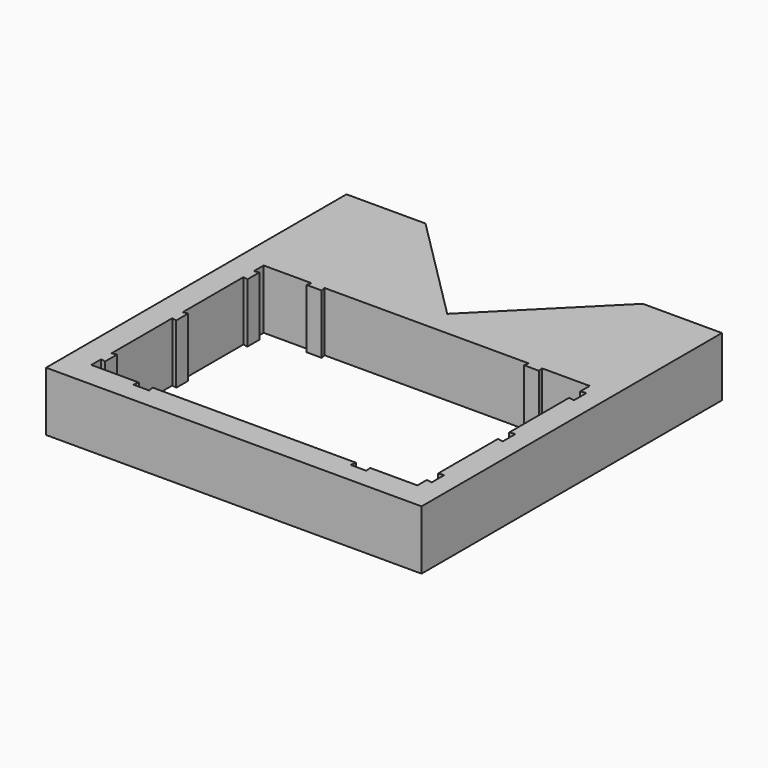
from build123d import *

# Parameters (mm, degrees)
PAD_DEPTH = 15


with BuildPart() as part:
    # Sketch → Pad (new body)
    with BuildSketch(Plane.XY):
        Polygon((0, 67.5), (-27.5, 95), (-47.5, 95), (-47.5, 0), (47.5, 0), (47.5, 95), (27.5, 95), align=None)
        Polygon((-41.25, 61), (-29.15, 61), (-29.4, 59.8), (-25.6, 59.8), (-25.85, 61), (25.85, 61), (25.6, 59.8), (29.4, 59.8), (29.15, 61), (41.25, 61), (41.25, 58), (42.65, 58.25), (42.65, 54.25), (41.25, 54.5), (41.25, 35.5), (42.65, 35.75), (42.65, 31.75), (41.25, 32), (41.25, 13), (42.65, 13.25), (42.65, 9.25), (41.25, 9.5), (41.25, 6.5), (29.25, 6.5), (29.5, 5.1), (25.5, 5.1), (25.75, 6.5), (-25.75, 6.5), (-25.5, 5.1), (-29.5, 5.1), (-29.25, 6.5), (-41.25, 6.5), (-41.25, 9.6), (-40.05, 9.35), (-40.05, 13.15), (-41.25, 12.9), (-41.25, 32.1), (-40.05, 31.85), (-40.05, 35.65), (-41.25, 35.4), (-41.25, 54.6), (-40.05, 54.35), (-40.05, 58.15), (-41.25, 57.9), align=None, mode=Mode.SUBTRACT)
    extrude(amount=PAD_DEPTH)


solid = part.part
